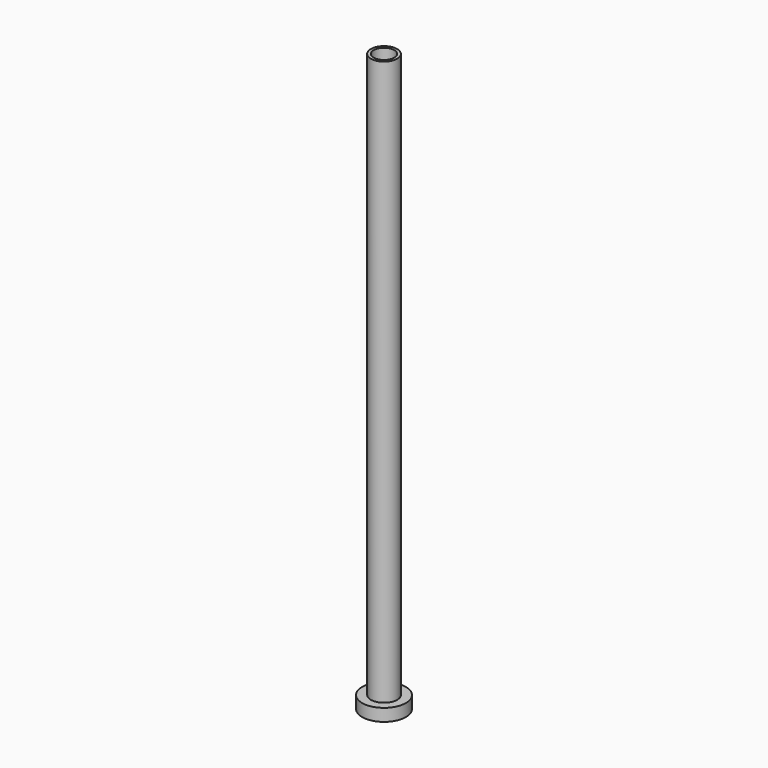
from build123d import *

# Parameters (mm, degrees)
F0_R     = 5.308755
F0_R_2   = 3.2
F0_R_3   = 2.5
F1_DEPTH = 3
F2_DEPTH = 5
F3_DEPTH = 140


with BuildPart() as f1:
    # F0 (on Top) → F1 (new body)
    with BuildSketch(Plane.XY):
        Circle(F0_R)
        Circle(F0_R_2, mode=Mode.SUBTRACT)
        Circle(F0_R_2)
        Circle(F0_R_3, mode=Mode.SUBTRACT)
        Circle(F0_R_3)
    extrude(amount=F1_DEPTH)

    # F0 (on Top) → F2 (join)
    with BuildSketch(Plane.XY):
        Circle(F0_R_2)
        Circle(F0_R_3, mode=Mode.SUBTRACT)
        Circle(F0_R_3)
    extrude(amount=F2_DEPTH)

    # F0 (on Top) → F3 (join)
    with BuildSketch(Plane.XY):
        Circle(F0_R_2)
        Circle(F0_R_3, mode=Mode.SUBTRACT)
    extrude(amount=F3_DEPTH)


solid = f1.part
